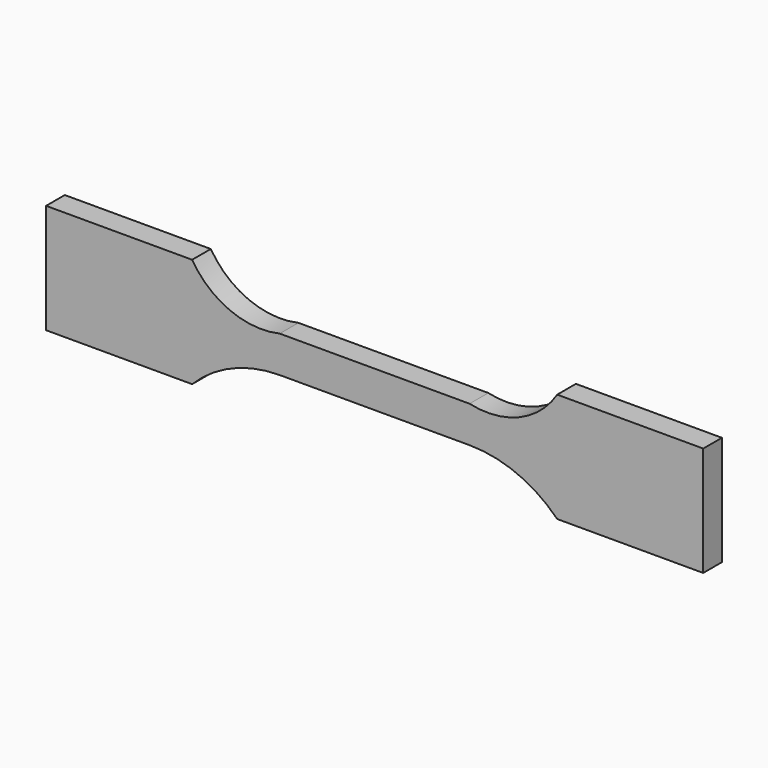
from build123d import *

# Parameters (mm, degrees)
F1_DEPTH = 4.064


with BuildPart() as f1:
    # F0 (on Front) → F1 (new body)
    with BuildSketch(Plane.XZ):
        with BuildLine():
            Line((16.51, 3.175), (0, 3.175))
            Line((0, 3.175), (-16.51, 3.175))
            ThreePointArc((-16.51, 3.175), (-25.145582, 3.912603), (-31.75, 9.525))
            Line((-31.75, 9.525), (-57.15, 9.525))
            Line((-57.15, 9.525), (-57.15, -9.525))
            Line((-57.15, -9.525), (-31.75, -9.525))
            ThreePointArc((-31.75, -9.525), (-24.765, -4.826), (-16.51, -3.175))
            Line((-16.51, -3.175), (0, -3.175))
            Line((0, -3.175), (16.51, -3.175))
            ThreePointArc((16.51, -3.175), (24.765, -4.826), (31.75, -9.525))
            Line((31.75, -9.525), (57.15, -9.525))
            Line((57.15, -9.525), (57.15, 9.525))
            Line((57.15, 9.525), (31.75, 9.525))
            ThreePointArc((31.75, 9.525), (25.145582, 3.912603), (16.51, 3.175))
        make_face()
    extrude(amount=F1_DEPTH)


solid = f1.part
